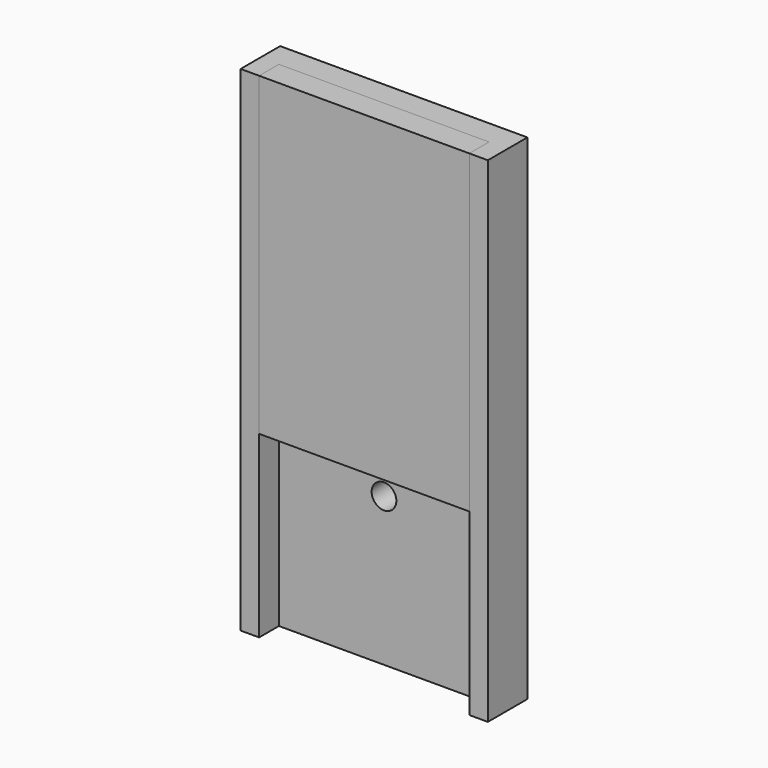
from build123d import *

# Parameters (mm, degrees)
F1_DEPTH      = 280
F1_DEPTH_BACK = 120
F2_R          = 10
F3_DEPTH      = 20
F4_W          = 170
F4_H          = 20
F5_DEPTH      = 255


with BuildPart() as f1:
    # F0 (on Top) → F1 (new body, two sides)
    with BuildSketch(Plane.XY) as f1_sk:
        Polygon((100, 40), (0, 40), (-100, 40), (-100, 0), (-85, 0), (-85, 20), (0, 20), (85, 20), (85, 0), (100, 0), align=None)
    extrude(amount=F1_DEPTH)
    extrude(f1_sk.sketch, amount=-F1_DEPTH_BACK)

    # F2 (on face) → F3 (cut)
    with BuildSketch(Plane.XZ.offset(-20)):
        Circle(F2_R)
    extrude(amount=-F3_DEPTH, mode=Mode.SUBTRACT)


with BuildPart() as f5:
    # F4 (on face) → F5 (new body)
    with BuildSketch(Plane.XY.offset(280)):
        with Locations((0, 10)):
            Rectangle(F4_W, F4_H)
    extrude(amount=-F5_DEPTH)


solid = Compound([f1.part, f5.part])
